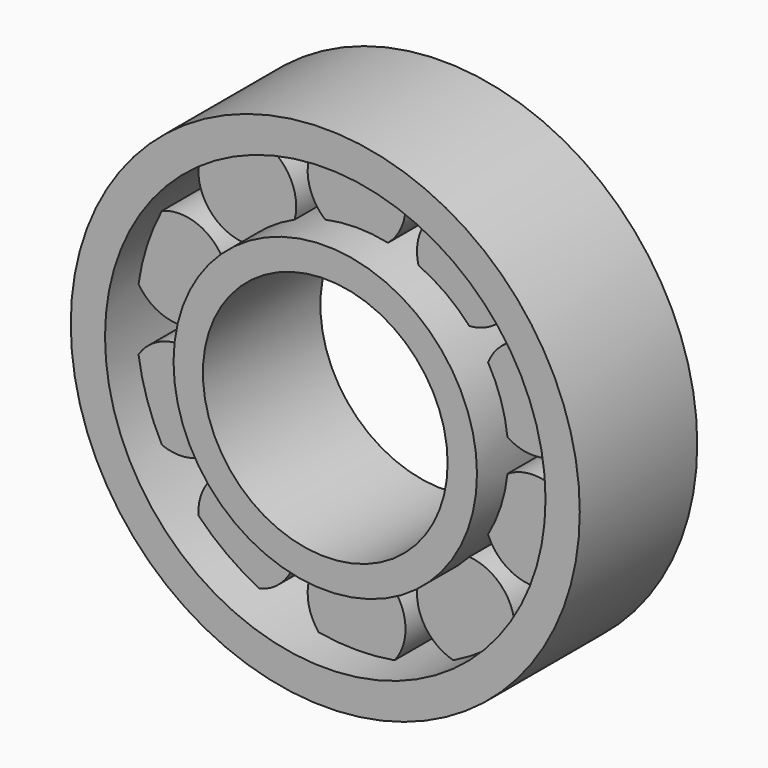
from build123d import *

# Parameters (mm, degrees)
F0_R     = 15.5
F0_R_2   = 12.5
F1_DEPTH = 15
F0_R_3   = 26
F0_R_4   = 22.5
F3_R     = 5
F4_DEPTH = 11


with BuildPart() as f1:
    # F0 (on Front) → F1 (new body)
    with BuildSketch(Plane.XZ):
        Circle(F0_R)
        Circle(F0_R_2, mode=Mode.SUBTRACT)
    extrude(amount=F1_DEPTH)



with BuildPart() as f1b:
    # F0 (on Front) → F1, piece 2 (new body)
    with BuildSketch(Plane.XZ):
        Circle(F0_R_3)
        Circle(F0_R_4, mode=Mode.SUBTRACT)
    extrude(amount=F1_DEPTH)


with BuildPart() as f1_1:
    add(f1.part)

    add(f1b.part)  # F4 merges F1b
    # F3 (on offset) → F4 (join)
    with BuildSketch(Plane.XZ):
        with Locations((0, 19)):
            Circle(F3_R)
        with Locations((11.1679197936, 15.3713228931)):
            Circle(F3_R)
        with Locations((18.0700738096, 5.8713228931)):
            Circle(F3_R)
        with Locations((18.0700738096, -5.8713228931)):
            Circle(F3_R)
        with Locations((11.1679197936, -15.3713228931)):
            Circle(F3_R)
        with Locations((0, -19)):
            Circle(F3_R)
        with Locations((-11.1679197936, -15.3713228931)):
            Circle(F3_R)
        with Locations((-18.0700738096, -5.8713228931)):
            Circle(F3_R)
        with Locations((-18.0700738096, 5.8713228931)):
            Circle(F3_R)
        with Locations((-11.1679197936, 15.3713228931)):
            Circle(F3_R)
    extrude(amount=F4_DEPTH)


solid = f1_1.part
